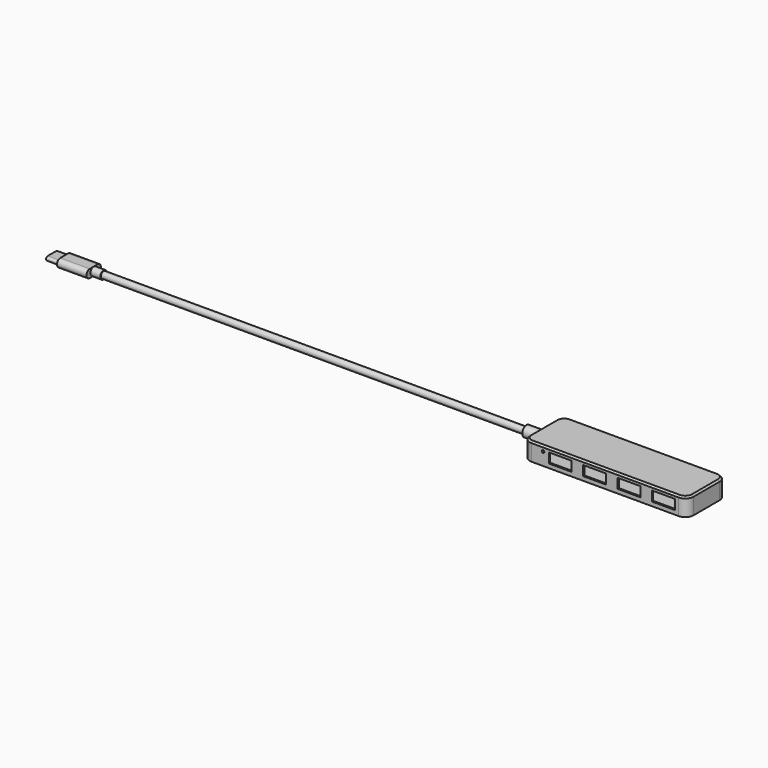
from build123d import *

# Parameters (mm, degrees)
SKETCH_W        = 100
SKETCH_H        = 30
PAD_DEPTH       = 5.5
FILLET_R        = 5
THICKNESS_T     = -1
PAD001_DEPTH    = 2
CHAMFER_SIZE    = 1
SKETCH002_R     = 3
HOLE_DEPTH      = 25
HOLE_TIPS_R     = 3
SKETCH003_R     = 0.75
SKETCH003_W     = 14
SKETCH003_H     = 6
POCKET_DEPTH    = 5
SKETCH004_R     = 3.25
PAD002_DEPTH    = 10
SKETCH005_R     = 2
PAD003_DEPTH    = 258.5
SKETCH006_R     = 2.5
PAD004_DEPTH    = 6
PAD005_DEPTH    = 18
PAD006_DEPTH    = 7.5
POCKET001_DEPTH = 7


with BuildPart() as part:
    # Sketch → Pad (new body, symmetric)
    with BuildSketch(Plane.XY):
        Rectangle(SKETCH_W, SKETCH_H)
    extrude(amount=PAD_DEPTH, both=True)

    # Fillet
    fillet_edges = [part.edges().sort_by_distance(p)[0] for p in [
        (-50, -15, 0),
        (-50, 15, 0),
        (50, 15, 0),
        (50, -15, 0),
    ]]
    fillet(fillet_edges, radius=FILLET_R)

    # Thickness
    thickness_openings = [part.faces().sort_by_distance(p)[0] for p in [
        (0, 0, -5.5),
    ]]
    offset(amount=THICKNESS_T, openings=thickness_openings)

    # Sketch001 (on Face10 of Thickness) → Pad001 (join)
    with BuildSketch(Plane(origin=(0, 0, -5.5), x_dir=(1, 0, 0), z_dir=(0, 0, -1))):
        with BuildLine():
            ThreePointArc((-45, 14), (-47.828427, 12.828427), (-49, 10))
            Line((-49, -10), (-49, 10))
            ThreePointArc((-49, -10), (-47.828427, -12.828427), (-45, -14))
            Line((45, -14), (-45, -14))
            ThreePointArc((45, -14), (47.828427, -12.828427), (49, -10))
            Line((49, 10), (49, -10))
            ThreePointArc((49, 10), (47.828427, 12.828427), (45, 14))
            Line((-45, 14), (45, 14))
        make_face()
    extrude(amount=-PAD001_DEPTH)

    # Chamfer
    chamfer_edges = [part.edges().sort_by_distance(p)[0] for p in [
        (0, -15, 5.5),
        (48.535534, -13.535534, 5.5),
        (50, 0, 5.5),
        (48.535534, 13.535534, 5.5),
        (0, 15, 5.5),
        (-48.535534, 13.535534, 5.5),
        (-50, 0, 5.5),
        (-48.535534, -13.535534, 5.5),
    ]]
    chamfer(chamfer_edges, length=CHAMFER_SIZE)

    # Sketch002 (on Face7 of Chamfer) → Hole (cut)
    with BuildSketch(Plane(origin=(-50, 0, 0), x_dir=(0, -1, 0), z_dir=(-1, 0, 0))):
        Circle(SKETCH002_R)
    extrude(amount=-HOLE_DEPTH, mode=Mode.SUBTRACT)

    # Hole tips → Hole tip 1 section 0
    with BuildSketch(Plane(origin=(-25, 0, 0), x_dir=(0, -1, 0), z_dir=(-1, 0, 0)), mode=Mode.PRIVATE) as hole_tip_1_s0:
        Circle(HOLE_TIPS_R)
    loft([hole_tip_1_s0.sketch, Vertex(-23.197418, 0, 0)], mode=Mode.SUBTRACT)

    # Sketch003 (on Face11 of Hole) → Pocket (cut)
    with BuildSketch(Plane.XZ.offset(15)):
        with Locations((-37.906574, 2.290524)):
            Circle(SKETCH003_R)
        with Locations((35.604452, 0)):
            Rectangle(SKETCH003_W, SKETCH003_H)
        with Locations((14.604452, 0)):
            Rectangle(SKETCH003_W, SKETCH003_H)
        with Locations((-6.395548, 0)):
            Rectangle(SKETCH003_W, SKETCH003_H)
        with Locations((-27.395548, 0)):
            Rectangle(SKETCH003_W, SKETCH003_H)
    extrude(amount=-POCKET_DEPTH, mode=Mode.SUBTRACT)

    # Sketch004 (on Face7 of Pocket) → Pad002 (join)
    with BuildSketch(Plane(origin=(-50, 0, 0), x_dir=(0, -1, 0), z_dir=(-1, 0, 0))):
        Circle(SKETCH004_R)
    extrude(amount=PAD002_DEPTH)

    # Sketch005 (on Face38 of Pad002) → Pad003 (join)
    with BuildSketch(Plane(origin=(-60, 0, 0), x_dir=(0, -1, 0), z_dir=(-1, 0, 0))):
        Circle(SKETCH005_R)
    extrude(amount=PAD003_DEPTH)

    # Sketch006 (on Face45 of Pad003) → Pad004 (join)
    with BuildSketch(Plane(origin=(-318.5, 0, 0), x_dir=(0, -1, 0), z_dir=(-1, 0, 0))):
        Circle(SKETCH006_R)
    extrude(amount=PAD004_DEPTH)

    # Sketch007 (on Face3 of Pad004) → Pad005 (join)
    with BuildSketch(Plane(origin=(-324.5, 0, 0), x_dir=(0, -1, 0), z_dir=(-1, 0, 0))):
        with BuildLine():
            ThreePointArc((-3, 2.5), (-5.5, 0), (-3, -2.5))
            Line((-3, -2.5), (3, -2.5))
            ThreePointArc((3, -2.5), (5.5, 0), (3, 2.5))
            Line((3, 2.5), (-3, 2.5))
        make_face()
    extrude(amount=PAD005_DEPTH)

    # Sketch008 (on Face11 of Pad005) → Pad006 (join)
    with BuildSketch(Plane(origin=(-342.5, 0, 0), x_dir=(0, -1, 0), z_dir=(-1, 0, 0))):
        with BuildLine():
            ThreePointArc((-3.25, 1.25), (-4.5, 0), (-3.25, -1.25))
            Line((-3.25, -1.25), (3.25, -1.25))
            ThreePointArc((3.25, -1.25), (4.5, 0), (3.25, 1.25))
            Line((3.25, 1.25), (-3.25, 1.25))
        make_face()
    extrude(amount=PAD006_DEPTH)

    # Sketch009 (on Face18 of Pad006) → Pocket001 (cut)
    with BuildSketch(Plane(origin=(-350, 0, 0), x_dir=(0, -1, 0), z_dir=(-1, 0, 0))):
        with BuildLine():
            ThreePointArc((-3.288859, 0.763778), (-4.052637, 0), (-3.288859, -0.763778))
            Line((-3.288859, -0.763778), (3.288859, -0.763778))
            ThreePointArc((3.288859, -0.763778), (4.052637, 0), (3.288859, 0.763778))
            Line((3.288859, 0.763778), (-3.288859, 0.763778))
        make_face()
    extrude(amount=-POCKET001_DEPTH, mode=Mode.SUBTRACT)


solid = part.part
